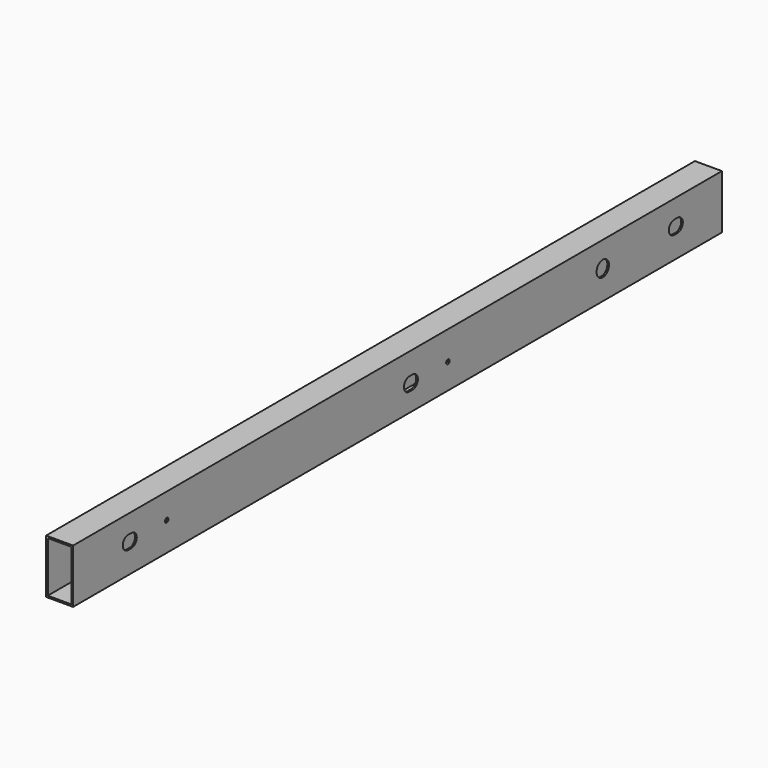
from build123d import *

# Parameters (mm, degrees)
F0_W     = 25.4
F0_H     = 50.8
F0_W_2   = 22.225
F0_H_2   = 47.625
F1_DEPTH = 762
F2_R     = 2.0066
F2_R_2   = 7.332348
F3_DEPTH = 25.401


with BuildPart() as f1:
    # F0 (on Front) → F1 (new body)
    with BuildSketch(Plane.XZ):
        with Locations((14.883514, 24.866902)):
            Rectangle(F0_W, F0_H)
        with Locations((14.883514, 24.866902)):
            Rectangle(F0_W_2, F0_H_2, mode=Mode.SUBTRACT)
    extrude(amount=F1_DEPTH)

    # F2 (on face) → F3 (cut, through all)
    with BuildSketch(Plane.YZ.offset(27.583514)):
        with BuildLine():
            Line((-697.333634, 20.167902), (-693.585719, 20.167902))
            ThreePointArc((-693.585719, 20.167902), (-687.235732, 26.505267), (-693.560449, 32.867852))
            ThreePointArc((-693.560449, 32.867852), (-693.585719, 32.867902), (-693.61099, 32.867852))
            Line((-693.61099, 32.867852), (-695.525434, 32.867852))
            ThreePointArc((-695.525434, 32.867852), (-695.550704, 32.867902), (-695.575975, 32.867852))
            Line((-695.575975, 32.867852), (-697.308364, 32.867852))
            ThreePointArc((-697.308364, 32.867852), (-697.333634, 32.867902), (-697.358904, 32.867852))
            ThreePointArc((-697.358904, 32.867852), (-701.832688, 30.999087), (-703.683634, 26.517902))
            ThreePointArc((-703.683634, 26.517902), (-701.823762, 22.027774), (-697.333634, 20.167902))
        make_face()
        with BuildLine():
            Line((-367.133634, 16.992902), (-363.385719, 16.992902))
            ThreePointArc((-363.385719, 16.992902), (-357.035732, 23.330267), (-363.360449, 29.692852))
            ThreePointArc((-363.360449, 29.692852), (-363.385719, 29.692902), (-363.41099, 29.692852))
            Line((-363.41099, 29.692852), (-365.325434, 29.692852))
            ThreePointArc((-365.325434, 29.692852), (-365.350704, 29.692902), (-365.375975, 29.692852))
            Line((-365.375975, 29.692852), (-367.108364, 29.692852))
            ThreePointArc((-367.108364, 29.692852), (-367.133634, 29.692902), (-367.158904, 29.692852))
            ThreePointArc((-367.158904, 29.692852), (-373.483621, 23.330267), (-367.133634, 16.992902))
        make_face()
        with BuildLine():
            Line((-55.999833, 20.167902), (-52.251919, 20.167902))
            ThreePointArc((-52.251919, 20.167902), (-45.901931, 26.505267), (-52.226648, 32.867852))
            ThreePointArc((-52.226648, 32.867852), (-52.251919, 32.867902), (-52.277189, 32.867852))
            Line((-52.277189, 32.867852), (-54.191633, 32.867852))
            ThreePointArc((-54.191633, 32.867852), (-54.216904, 32.867902), (-54.242174, 32.867852))
            Line((-54.242174, 32.867852), (-55.974563, 32.867852))
            ThreePointArc((-55.974563, 32.867852), (-55.999833, 32.867902), (-56.025104, 32.867852))
            ThreePointArc((-56.025104, 32.867852), (-62.349821, 26.505267), (-55.999833, 20.167902))
        make_face()
        with Locations((-321.866565, 23.342902)):
            Circle(F2_R)
        with Locations((-652.066565, 26.517902)):
            Circle(F2_R)
        with Locations((-139.925704, 26.517902)):
            Circle(F2_R_2)
    extrude(amount=-F3_DEPTH, mode=Mode.SUBTRACT)


solid = f1.part
